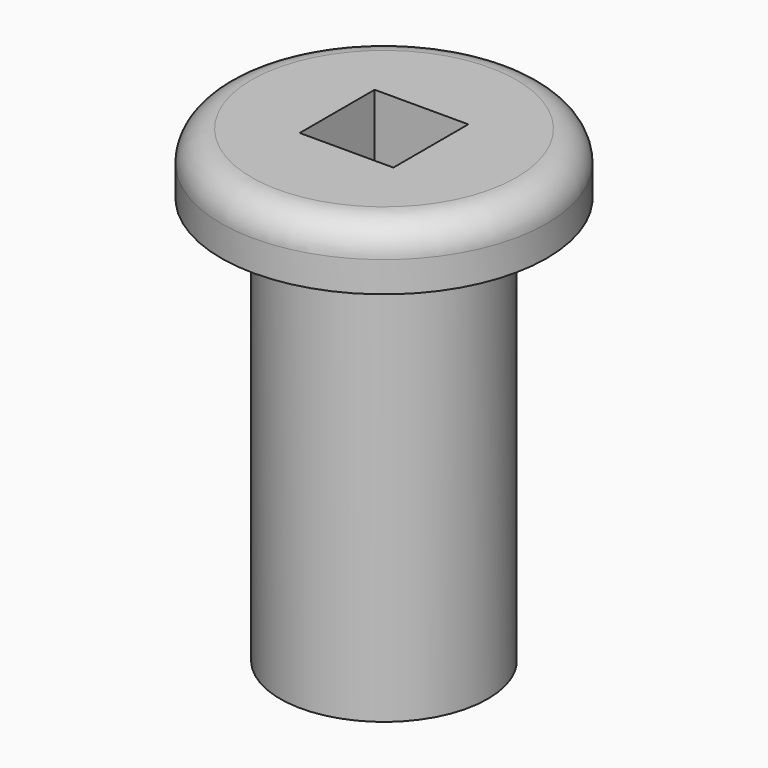
from build123d import *

# Parameters (mm, degrees)
F0_R     = 10.2
F1_DEPTH = 40
F2_W     = 9.2
F2_H     = 9.2
F3_DEPTH = 20
F4_R     = 16
F4_R_2   = 10.2
F4_W     = 9.2
F4_H     = 9.2
F5_DEPTH = 6
F6_R     = 3


with BuildPart() as f1:
    # F0 (on Top) → F1 (new body)
    with BuildSketch(Plane.XY):
        Circle(F0_R)
    extrude(amount=F1_DEPTH)

    # F2 (on face) → F3 (cut)
    with BuildSketch(Plane.XY.offset(40)):
        Rectangle(F2_W, F2_H)
    extrude(amount=-F3_DEPTH, mode=Mode.SUBTRACT)

    # F4 (on face) → F5 (join)
    with BuildSketch(Plane.XY.offset(40)):
        Circle(F4_R)
        Circle(F4_R_2, mode=Mode.SUBTRACT)
        Circle(F4_R_2)
        Rectangle(F4_W, F4_H, mode=Mode.SUBTRACT)
    extrude(amount=F5_DEPTH)

    # F6
    f6_edges = [f1.edges().sort_by_distance(p)[0] for p in [
        (-16, 0, 46),
    ]]
    fillet(f6_edges, radius=F6_R)


solid = f1.part
